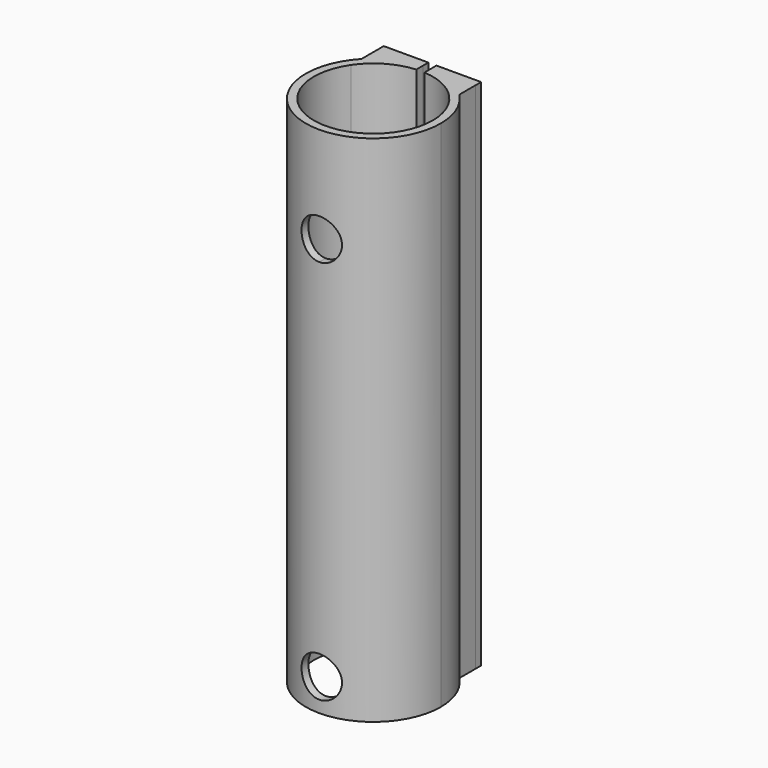
from build123d import *

# Parameters (mm, degrees)
F0_W     = 8.8289421401
F0_H     = 1.353359101
F0_W_2   = 8.8226038183
F1_DEPTH = 101.6
F3_DEPTH = 25.4


with BuildPart() as f1:
    # F0 (on Top) → F1 (new body)
    with BuildSketch(Plane.XY):
        with Locations((5.1440017123, 14.0243795505)):
            Rectangle(F0_W, F0_H)
        with Locations((-5.2819712669, 14.0243795505)):
            Rectangle(F0_W_2, F0_H)
        with BuildLine():
            Line((-9.693273176, 13.3477), (-9.693273176, 9.1761402793))
            ThreePointArc((-9.693273176, 9.1761402793), (-5.67367671, 12.0818246917), (-0.8706693577, 13.319272884))
            Line((-0.8706693577, 13.319272884), (-0.8706693577, 13.3477))
            Line((-0.8706693577, 13.3477), (-9.693273176, 13.3477))
        make_face()
        with BuildLine():
            Line((-9.693273176, 9.1761402793), (-9.693273176, 6.6365813025))
            ThreePointArc((-9.693273176, 6.6365813025), (-5.8606559871, 10.1811820361), (-0.8706693577, 11.7151906139))
            Line((-0.8706693577, 11.7151906139), (-0.8706693577, 13.319272884))
            ThreePointArc((-0.8706693577, 13.319272884), (-5.67367671, 12.0818246917), (-9.693273176, 9.1761402793))
        make_face()
        with BuildLine():
            ThreePointArc((0.7295306423, 13.3277485095), (5.5211714169, 12.152273922), (9.5584727824, 9.3164742987))
            Line((9.5584727824, 9.3164742987), (9.5584727824, 13.3477))
            Line((9.5584727824, 13.3477), (0.7295306423, 13.3477))
            Line((0.7295306423, 13.3477), (0.7295306423, 13.3277485095))
        make_face()
        with BuildLine():
            ThreePointArc((0.7295306423, 11.7248258534), (5.6966915069, 10.2738241237), (9.5584727824, 6.8293011589))
            Line((9.5584727824, 6.8293011589), (9.5584727824, 9.3164742987))
            ThreePointArc((9.5584727824, 9.3164742987), (5.5211714169, 12.152273922), (0.7295306423, 13.3277485095))
            Line((0.7295306423, 13.3277485095), (0.7295306423, 11.7248258534))
        make_face()
        with BuildLine():
            ThreePointArc((11.7475, 0), (-3.4736169632, -11.2221986011), (-9.693273176, 6.6365813025))
            Line((-9.693273176, 6.6365813025), (-9.693273176, 9.1761402793))
            ThreePointArc((-9.693273176, 9.1761402793), (-4.9385318121, -12.4004838144), (13.3477, 0))
            ThreePointArc((13.3477, 0), (12.3641563086, 5.0287905172), (9.5584727824, 9.3164742987))
            Line((9.5584727824, 9.3164742987), (9.5584727824, 6.8293011589))
            ThreePointArc((9.5584727824, 6.8293011589), (11.1868654068, 3.5857772685), (11.7475, 0))
        make_face()
    extrude(amount=F1_DEPTH)


with BuildPart() as f3:
    # F2 (on Front) → F3 (new body)
    with BuildSketch(Plane.XZ):
        with BuildLine():
            ThreePointArc((4.0005, 82.55), (-2.8287806781, 85.3787806781), (0, 78.5495))
            ThreePointArc((0, 78.5495), (2.8287806781, 79.7212193219), (4.0005, 82.55))
        make_face()
    extrude(amount=F3_DEPTH)


with BuildPart() as f3b:
    # F2 (on Front) → F3, piece 2 (new body)
    with BuildSketch(Plane.XZ):
        with BuildLine():
            ThreePointArc((0, 10.3505), (-2.8287806781, 3.5212193219), (4.0005, 6.35))
            ThreePointArc((4.0005, 6.35), (2.8287806781, 9.1787806781), (0, 10.3505))
        make_face()
    extrude(amount=F3_DEPTH)


with BuildPart() as f1_1:
    add(f1.part)

    # F4: cut F3, F3b
    add(f3.part, mode=Mode.SUBTRACT)
    add(f3b.part, mode=Mode.SUBTRACT)


solid = f1_1.part
